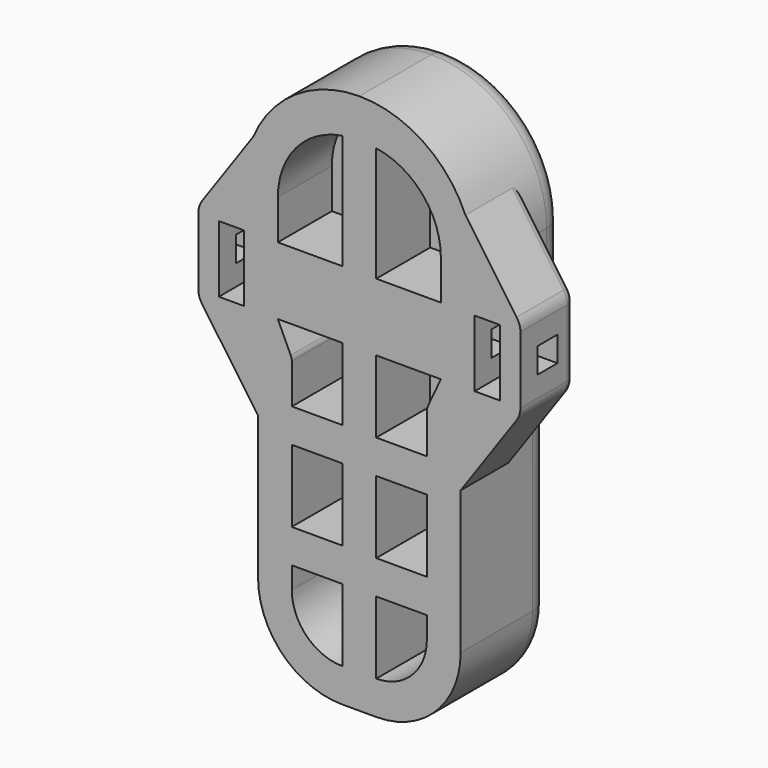
from build123d import *

# Parameters (mm, degrees)
PAD006_DEPTH         = 25
SKETCH009_W          = 71.2318
SKETCH009_H          = 140.2182
POCKET002_DEPTH      = 25.001
POCKET002_DEPTH_BACK = 0.001
SKETCH010_W          = 5.6
SKETCH010_H          = 14.8
PAD007_DEPTH         = 15
SKETCH011_W          = 5.6
SKETCH011_H          = 5.6
POCKET003_DEPTH      = 35.7869
POCKET003_DEPTH_BACK = 35.7869
FILLET_R             = 5
FILLET002_R          = 2
SKETCH029_W          = 11.2544
SKETCH029_H          = 16.079666
POCKET014_DEPTH      = 15


with BuildPart() as part:
    # Sketch008 → Pad006 (new body)
    with BuildSketch(Plane.XZ):
        with BuildLine():
            Line((-22.5044, 0), (22.5044, 0))
            Line((22.5044, 0), (22.5044, 63.215202))
            ThreePointArc((22.75823, 64.3128), (22.568684, 63.778485), (22.5044, 63.215202))
            Line((25.36207, 69.641402), (22.75823, 64.3128))
            ThreePointArc((25.36207, 69.641402), (25.551616, 70.175717), (25.6159, 70.739))
            Line((25.6159, 120.2182), (25.6159, 70.739))
            Line((-25.6159, 120.2182), (25.6159, 120.2182))
            Line((-25.6159, 70.739), (-25.6159, 120.2182))
            ThreePointArc((-25.6159, 70.739), (-25.551616, 70.175717), (-25.36207, 69.641402))
            Line((-25.36207, 69.641402), (-22.75823, 64.3128))
            ThreePointArc((-22.5044, 63.215202), (-22.568684, 63.778485), (-22.75823, 64.3128))
            Line((-22.5044, 63.215202), (-22.5044, 0))
        make_face()
    extrude(amount=-PAD006_DEPTH)

    # Sketch009 → Pocket002 (cut, two sides)
    with BuildSketch(Plane.XZ) as pocket002_sk:
        with Locations((0, 60.1091)):
            Rectangle(SKETCH009_W, SKETCH009_H)
        with BuildLine():
            ThreePointArc((-22.5044, 18.6944), (-17.028937, 5.475463), (-3.81, 0))
            Line((-3.81, 0), (3.81, 0))
            ThreePointArc((3.81, 0), (17.028937, 5.475463), (22.5044, 18.6944))
            Line((22.5044, 18.6944), (22.5044, 59.3128))
            Line((22.5044, 59.3128), (25.6159, 59.3128))
            Line((25.6159, 59.3128), (25.6159, 94.6023))
            ThreePointArc((25.6159, 94.6023), (18.113177, 112.715477), (0, 120.2182))
            ThreePointArc((0, 120.2182), (-18.113177, 112.715477), (-25.6159, 94.6023))
            Line((-25.6159, 94.6023), (-25.6159, 59.3128))
            Line((-25.6159, 59.3128), (-22.5044, 59.3128))
            Line((-22.5044, 59.3128), (-22.5044, 18.6944))
        make_face(mode=Mode.SUBTRACT)
    extrude(amount=-POCKET002_DEPTH, mode=Mode.SUBTRACT)
    extrude(pocket002_sk.sketch, amount=POCKET002_DEPTH_BACK, mode=Mode.SUBTRACT)

    # Sketch010 → Pad007 (join)
    with BuildSketch(Plane.XZ):
        with BuildLine():
            Line((35.7859, 70.839), (35.7859, 85.739))
            ThreePointArc((35.7859, 85.739), (35.574386, 87.113226), (34.959425, 88.360244))
            Line((22.5044, 106.147863), (34.959425, 88.360244))
            Line((22.5044, 106.147863), (22.5044, 50.430137))
            Line((22.5044, 50.430137), (34.959425, 68.217756))
            ThreePointArc((34.959425, 68.217756), (35.574386, 69.464774), (35.7859, 70.839))
        make_face()
        with Locations((28.4159, 78.239)):
            Rectangle(SKETCH010_W, SKETCH010_H, mode=Mode.SUBTRACT)
    pad007 = extrude(amount=-PAD007_DEPTH)

    # Mirrored: Pad007 across Sketch010 V_Axis
    add(pad007.mirror(Plane(origin=(0, 0, 0), x_dir=(0, -1, 0), z_dir=(1, 0, 0))))

    # Sketch011 → Pocket003 (cut, two sides)
    with BuildSketch(Plane.YZ) as pocket003_sk:
        with Locations((7.5, 78.239)):
            Rectangle(SKETCH011_W, SKETCH011_H)
    extrude(amount=-POCKET003_DEPTH, mode=Mode.SUBTRACT)
    extrude(pocket003_sk.sketch, amount=POCKET003_DEPTH_BACK, mode=Mode.SUBTRACT)

    # Fillet
    fillet_edges = [part.edges().sort_by_distance(p)[0] for p in [
        (-18.113177, 25, 112.715477),
    ]]
    fillet(fillet_edges, radius=FILLET_R)

    # Fillet002
    fillet002_edges = [part.edges().sort_by_distance(p)[0] for p in [
        (-29.268875, 15, 96.487192),
        (35.7859, 15, 78.289),
    ]]
    fillet(fillet002_edges, radius=FILLET002_R)

    # Sketch029 → Pocket014 (cut)
    with BuildSketch(Plane.XZ):
        with BuildLine():
            ThreePointArc((-15.0044, 18.7544), (-11.708063, 10.796338), (-3.75, 7.5))
            Line((-3.75, 7.5), (-3.75, 23.579667))
            Line((-15.0044, 23.579667), (-3.75, 23.579667))
            Line((-15.0044, 18.7544), (-15.0044, 23.579667))
        make_face()
        with BuildLine():
            ThreePointArc((3.75, 7.5), (11.708063, 10.796337), (15.0044, 18.7544))
            Line((15.0044, 18.7544), (15.0044, 23.579667))
            Line((15.0044, 23.579667), (3.75, 23.579667))
            Line((3.75, 7.5), (3.75, 23.579667))
        make_face()
        with BuildLine():
            Line((18.1159, 85.739), (18.1159, 94.561344))
            ThreePointArc((18.1159, 94.561344), (14.029747, 105.571402), (3.75, 111.249857))
            Line((3.75, 111.249857), (3.75, 85.739))
            Line((3.75, 85.739), (18.1159, 85.739))
        make_face()
        with BuildLine():
            Line((-18.1159, 85.739), (-18.1159, 94.561344))
            ThreePointArc((-3.75, 111.249857), (-14.029747, 105.571402), (-18.1159, 94.561344))
            Line((-3.75, 111.249857), (-3.75, 85.739))
            Line((-3.75, 85.739), (-18.1159, 85.739))
        make_face()
        with BuildLine():
            ThreePointArc((-15.0044, 63.514644), (-15.063702, 64.055934), (-15.238795, 64.571543))
            Line((-18.1159, 70.739), (-15.238795, 64.571543))
            Line((-3.75, 70.739), (-18.1159, 70.739))
            Line((-3.75, 54.659333), (-3.75, 70.739))
            Line((-15.0044, 54.659333), (-3.75, 54.659333))
            Line((-15.0044, 54.659333), (-15.0044, 63.514644))
        make_face()
        with BuildLine():
            ThreePointArc((15.238795, 64.571543), (15.063702, 64.055934), (15.0044, 63.514644))
            Line((15.0044, 54.659333), (15.0044, 63.514644))
            Line((15.0044, 54.659333), (3.75, 54.659333))
            Line((3.75, 54.659333), (3.75, 70.739))
            Line((3.75, 70.739), (18.1159, 70.739))
            Line((15.238795, 64.571543), (18.1159, 70.739))
        make_face()
        with Locations((-9.3772, 39.1195)):
            Rectangle(SKETCH029_W, SKETCH029_H)
        with Locations((9.3772, 39.1195)):
            Rectangle(SKETCH029_W, SKETCH029_H)
    extrude(amount=-POCKET014_DEPTH, mode=Mode.SUBTRACT)


with BuildPart() as part_1:
    # Body002 placement: moved
    add(part.part.moved(Location((0, 15, 0))))


solid = part_1.part
